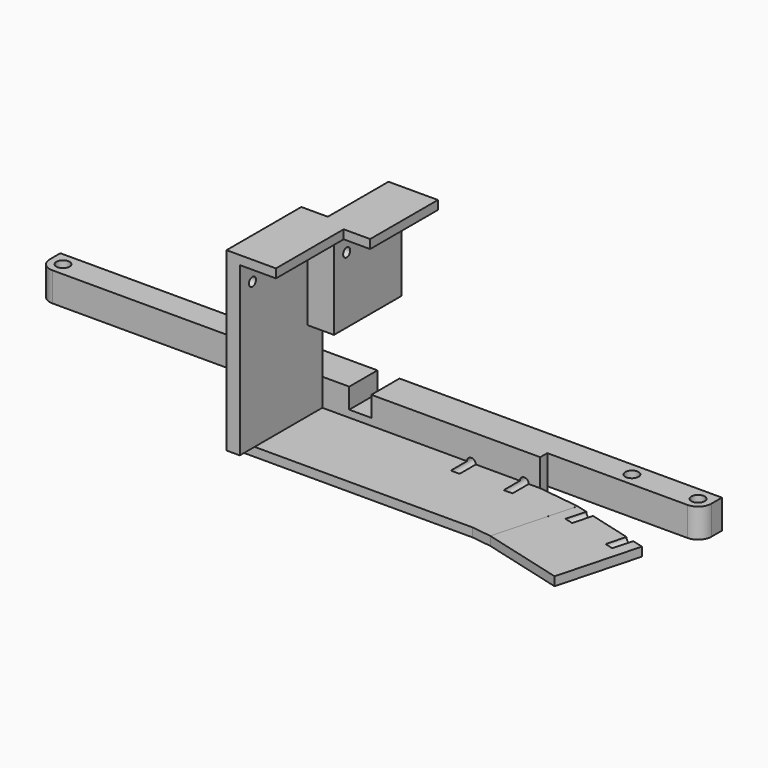
from build123d import *

# Parameters (mm, degrees)
RECTANGLE008_W             = 5
RECTANGLE008_H             = 10
EXTRUDE015_DEPTH           = 5.4
CYLINDER009_R              = 1
CYLINDER009_DEPTH          = 7
CYLINDER008_R              = 1
CYLINDER008_DEPTH          = 7
FUSION019_PLACEMENT_ANGLE  = 15
CYLINDER011_R              = 1
CYLINDER011_DEPTH          = 10
CYLINDER010_R              = 1
CYLINDER010_DEPTH          = 10
CYLINDER013_R              = 1
CYLINDER013_DEPTH          = 10
CYLINDER012_R              = 1
CYLINDER012_DEPTH          = 10
CYLINDER007_R              = 1
CYLINDER007_DEPTH          = 20
CYLINDER006_R              = 1
CYLINDER006_DEPTH          = 20
BOX011_W                   = 52.4
BOX011_H                   = 2
BOX011_DEPTH               = 8.2
EXTRUDE012_DEPTH           = 2
RECTANGLE006_W             = 19.2
RECTANGLE006_H             = 19.2
EXTRUDE013_DEPTH           = 2
EXTRUDE013_PLACEMENT_ANGLE = 15
BOX010_W                   = 52.4
BOX010_H                   = 19.2
BOX010_DEPTH               = 2
CYLINDER004_R              = 1.5
CYLINDER004_DEPTH          = 10
CYLINDER005_R              = 1.5
CYLINDER005_DEPTH          = 10
CYLINDER003_R              = 1.5
CYLINDER003_DEPTH          = 10
RECTANGLE007_W             = 150
RECTANGLE007_H             = 6
EXTRUDE014_DEPTH           = 6.6
FILLET001_R                = 3
BOX009_W                   = 6
BOX009_H                   = 2
BOX009_DEPTH               = 21.8
BOX008_W                   = 1.3
BOX008_H                   = 6.3
BOX008_DEPTH               = 1.15
BOX007_W                   = 11.2
BOX007_H                   = 19.2
BOX007_DEPTH               = 2
BOX006_W                   = 3
BOX006_H                   = 19.2
BOX006_DEPTH               = 38
BOX004_W                   = 1.3
BOX004_H                   = 6.3
BOX004_DEPTH               = 1.15
BOX003_W                   = 11.2
BOX003_H                   = 19.2
BOX003_DEPTH               = 2
BOX001_W                   = 3
BOX001_H                   = 19.2
BOX001_DEPTH               = 19.8
BOX014_W                   = 3
BOX014_H                   = 4.2
BOX014_DEPTH               = 18.2


with BuildPart() as extrude016:
    # Rectangle008 → Extrude015 (new body)
    with BuildSketch(Plane(origin=(-33.7, 9.6, 8.4), x_dir=(1, 0, 0), z_dir=(0, 0, 1))):
        with Locations((2.5, 5)):
            Rectangle(RECTANGLE008_W, RECTANGLE008_H)
    extrude(amount=EXTRUDE015_DEPTH)


with BuildPart() as extrude016_1:
    # Extrude015 placement: moved
    add(extrude016.part.moved(Location((0, 0, -10))))


with BuildPart() as cylinder009:
    # Cylinder009 → Cylinder009 (new body)
    with BuildSketch(Plane(origin=(-6, 12, -3.2), x_dir=(1, 0, 0), z_dir=(0, -1, 0))):
        Circle(CYLINDER009_R)
    extrude(amount=CYLINDER009_DEPTH)


with BuildPart() as fusion021:
    # Cylinder008 → Cylinder008 (new body)
    with BuildSketch(Plane(origin=(6, 12, -3.2), x_dir=(1, 0, 0), z_dir=(0, -1, 0))):
        Circle(CYLINDER008_R)
    extrude(amount=CYLINDER008_DEPTH)

    # Fusion019: union Cylinder009
    add(cylinder009.part)


with BuildPart() as fusion021_1:
    # Fusion019 placement: moved
    add(fusion021.part.moved(Location((25.88, -3.41, 0))).rotate(Axis((25.88, -3.41, 0), (0, 0, -1)), FUSION019_PLACEMENT_ANGLE))


with BuildPart() as cylinder011:
    # Cylinder011 → Cylinder011 (new body)
    with BuildSketch(Plane(origin=(0, -6, 0), x_dir=(0, 0, -1), z_dir=(1, 0, 0))):
        Circle(CYLINDER011_R)
    extrude(amount=CYLINDER011_DEPTH)


with BuildPart() as fusion022:
    # Cylinder010 → Cylinder010 (new body)
    with BuildSketch(Plane(origin=(0, 6, 0), x_dir=(0, 0, -1), z_dir=(1, 0, 0))):
        Circle(CYLINDER010_R)
    extrude(amount=CYLINDER010_DEPTH)

    # Fusion020: union Cylinder011
    add(cylinder011.part)


with BuildPart() as fusion022_1:
    # Fusion020 placement: moved
    add(fusion022.part.moved(Location((-40, 15, 30))))


with BuildPart() as cylinder013:
    # Cylinder013 → Cylinder013 (new body)
    with BuildSketch(Plane(origin=(0, -6, 0), x_dir=(0, 0, -1), z_dir=(1, 0, 0))):
        Circle(CYLINDER013_R)
    extrude(amount=CYLINDER013_DEPTH)


with BuildPart() as fusion023:
    # Cylinder012 → Cylinder012 (new body)
    with BuildSketch(Plane(origin=(0, 6, 0), x_dir=(0, 0, -1), z_dir=(1, 0, 0))):
        Circle(CYLINDER012_R)
    extrude(amount=CYLINDER012_DEPTH)

    # Fusion021: union Cylinder013
    add(cylinder013.part)


with BuildPart() as fusion023_1:
    # Fusion021 placement: moved
    add(fusion023.part.moved(Location((-48, -4.2, 30))))


with BuildPart() as cylinder007:
    # Cylinder007 → Cylinder007 (new body)
    with BuildSketch(Plane(origin=(-6, 25, -3.2), x_dir=(1, 0, 0), z_dir=(0, -1, 0))):
        Circle(CYLINDER007_R)
    extrude(amount=CYLINDER007_DEPTH)


with BuildPart() as fusion024:
    # Cylinder006 → Cylinder006 (new body)
    with BuildSketch(Plane(origin=(6, 25, -3.2), x_dir=(1, 0, 0), z_dir=(0, -1, 0))):
        Circle(CYLINDER006_R)
    extrude(amount=CYLINDER006_DEPTH)

    # Fusion018: union Cylinder007
    add(cylinder007.part)

    # Fusion022: union Fusion021, Fusion022, Fusion023
    add(fusion021_1.part)
    add(fusion022_1.part)
    add(fusion023_1.part)


with BuildPart() as cube013:
    # Box011 → Box011 (new body)
    with BuildSketch(Plane(origin=(-42.8, 9.6, -5.2), x_dir=(1, 0, 0), z_dir=(0, 0, 1))):
        with Locations((26.2, 1)):
            Rectangle(BOX011_W, BOX011_H)
    extrude(amount=BOX011_DEPTH)


with BuildPart() as extrude012:
    # Wire001 → Extrude012 (new body)
    with BuildSketch(Plane(origin=(9.596443, -9.60026, 0), x_dir=(1, 0, 0), z_dir=(0, 0, 1))):
        Polygon((0, 0), (4.525942, -0.594952), (9.495331, 17.950812), (0.003557, 19.20026), align=None)
    extrude(amount=EXTRUDE012_DEPTH)


with BuildPart() as extrude012_1:
    # Extrude012 placement: moved
    add(extrude012.part.moved(Location((0, 0, -5.2))))


with BuildPart() as extrude014:
    # Rectangle006 → Extrude013 (new body)
    with BuildSketch(Plane(origin=(-9.6, 9.6, -5.2), x_dir=(1, 0, 0), z_dir=(0, 0, -1))):
        with Locations((9.6, 9.6)):
            Rectangle(RECTANGLE006_W, RECTANGLE006_H)
    extrude(amount=-EXTRUDE013_DEPTH)


with BuildPart() as extrude014_1:
    # Extrude013 placement: moved
    add(extrude014.part.moved(Location((25.88, -3.41, 0))).rotate(Axis((25.88, -3.41, 0), (0, 0, -1)), EXTRUDE013_PLACEMENT_ANGLE))


with BuildPart() as fusion014:
    # Box010 → Box010 (new body)
    with BuildSketch(Plane(origin=(-42.8, -9.6, -5.2), x_dir=(1, 0, 0), z_dir=(0, 0, 1))):
        with Locations((26.2, 9.6)):
            Rectangle(BOX010_W, BOX010_H)
    extrude(amount=BOX010_DEPTH)

    # Fusion013: union Extrude012, Extrude014
    add(extrude012_1.part)
    add(extrude014_1.part)


with BuildPart() as cylinder004:
    # Cylinder004 → Cylinder004 (new body)
    with BuildSketch(Plane(origin=(26.4, 12.6, 5), x_dir=(1, 0, 0), z_dir=(0, 0, 1))):
        Circle(CYLINDER004_R)
    extrude(amount=CYLINDER004_DEPTH)


with BuildPart() as cylinder005:
    # Cylinder005 → Cylinder005 (new body)
    with BuildSketch(Plane(origin=(11.4, 12.6, 5), x_dir=(1, 0, 0), z_dir=(0, 0, 1))):
        Circle(CYLINDER005_R)
    extrude(amount=CYLINDER005_DEPTH)


with BuildPart() as fusion008:
    # Cylinder003 → Cylinder003 (new body)
    with BuildSketch(Plane(origin=(-117.6, 12.6, 5), x_dir=(1, 0, 0), z_dir=(0, 0, 1))):
        Circle(CYLINDER003_R)
    extrude(amount=CYLINDER003_DEPTH)

    # Fusion008: union Cylinder004, Cylinder005
    add(cylinder004.part)
    add(cylinder005.part)


with BuildPart() as cut013:
    # Rectangle007 → Extrude014 (new body)
    with BuildSketch(Plane(origin=(-120.6, 9.6, 5), x_dir=(1, 0, 0), z_dir=(0, 0, 1))):
        with Locations((75, 3)):
            Rectangle(RECTANGLE007_W, RECTANGLE007_H)
    extrude(amount=EXTRUDE014_DEPTH)

    # Fillet001
    fillet001_edges = [cut013.edges().sort_by_distance(p)[0] for p in [
        (-120.6, 9.6, 8.3),
        (29.4, 9.6, 8.3),
    ]]
    fillet(fillet001_edges, radius=FILLET001_R)

    # Cut004: cut Fusion008
    add(fusion008.part, mode=Mode.SUBTRACT)


with BuildPart() as cut013_1:
    # Cut004 placement: moved
    add(cut013.part.moved(Location((15, 2, -8.6))))


with BuildPart() as cube009:
    # Box009 → Box009 (new body)
    with BuildSketch(Plane(origin=(-42.8, 5.4, 15), x_dir=(1, 0, 0), z_dir=(0, 0, 1))):
        with Locations((3, 1)):
            Rectangle(BOX009_W, BOX009_H)
    extrude(amount=BOX009_DEPTH)


with BuildPart() as cube008:
    # Box008 → Box008 (new body)
    with BuildSketch(Plane(origin=(-28.05, 11.85, 34.2), x_dir=(1, 0, 0), z_dir=(0, 0, 1))):
        with Locations((0.65, 3.15)):
            Rectangle(BOX008_W, BOX008_H)
    extrude(amount=BOX008_DEPTH)


with BuildPart() as cut012:
    # Box007 → Box007 (new body)
    with BuildSketch(Plane(origin=(-36.8, 5.4, 34.2), x_dir=(1, 0, 0), z_dir=(0, 0, 1))):
        with Locations((5.6, 9.6)):
            Rectangle(BOX007_W, BOX007_H)
    extrude(amount=BOX007_DEPTH)

    # Cut003: cut Cube008
    add(cube008.part, mode=Mode.SUBTRACT)


with BuildPart() as fusion007:
    # Box006 → Box006 (new body)
    with BuildSketch(Plane(origin=(-36.8, 5.4, -3.8), x_dir=(1, 0, 0), z_dir=(0, 0, 1))):
        with Locations((1.5, 9.6)):
            Rectangle(BOX006_W, BOX006_H)
    extrude(amount=BOX006_DEPTH)

    # Fusion007: union Cut012
    add(cut012.part)


with BuildPart() as fusion007_1:
    # Fusion007 placement: moved
    add(fusion007.part.moved(Location((-6, -19.2, 0.6))))


with BuildPart() as cube004:
    # Box004 → Box004 (new body)
    with BuildSketch(Plane(origin=(-28.05, 11.85, 34.2), x_dir=(1, 0, 0), z_dir=(0, 0, 1))):
        with Locations((0.65, 3.15)):
            Rectangle(BOX004_W, BOX004_H)
    extrude(amount=BOX004_DEPTH)


with BuildPart() as cut011:
    # Box003 → Box003 (new body)
    with BuildSketch(Plane(origin=(-36.8, 5.4, 34.2), x_dir=(1, 0, 0), z_dir=(0, 0, 1))):
        with Locations((5.6, 9.6)):
            Rectangle(BOX003_W, BOX003_H)
    extrude(amount=BOX003_DEPTH)

    # Cut002: cut Cube004
    add(cube004.part, mode=Mode.SUBTRACT)


with BuildPart() as fusion006:
    # Box001 → Box001 (new body)
    with BuildSketch(Plane(origin=(-36.8, 5.4, 14.4), x_dir=(1, 0, 0), z_dir=(0, 0, 1))):
        with Locations((1.5, 9.6)):
            Rectangle(BOX001_W, BOX001_H)
    extrude(amount=BOX001_DEPTH)

    # Fusion006: union Cut011
    add(cut011.part)


with BuildPart() as fusion006_1:
    # Fusion006 placement: moved
    add(fusion006.part.moved(Location((0, 0, 0.6))))


with BuildPart() as cut017:
    # Box014 → Box014 (new body)
    with BuildSketch(Plane(origin=(-42.8, 5.4, -3.2), x_dir=(1, 0, 0), z_dir=(0, 0, 1))):
        with Locations((1.5, 2.1)):
            Rectangle(BOX014_W, BOX014_H)
    extrude(amount=BOX014_DEPTH)

    # Fusion024: union Cube013, Fusion014, Cut013, Cube009, Fusion007, Fusion006
    add(cube013.part)
    add(fusion014.part)
    add(cut013_1.part)
    add(cube009.part)
    add(fusion007_1.part)
    add(fusion006_1.part)

    # Cut005: cut Fusion024
    add(fusion024.part, mode=Mode.SUBTRACT)

    # Cut008: cut Extrude016
    add(extrude016_1.part, mode=Mode.SUBTRACT)


solid = cut017.part
